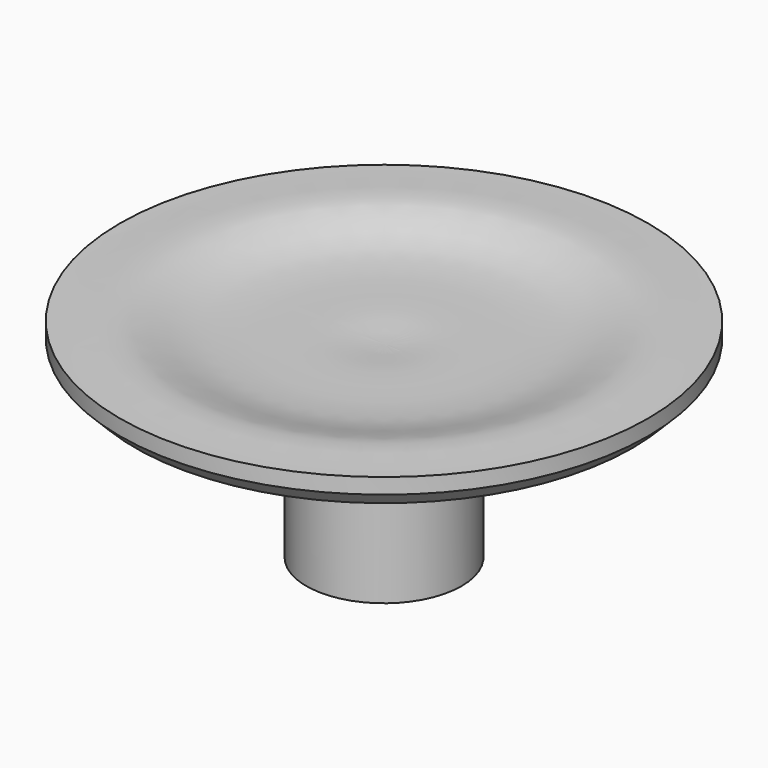
from build123d import *

# Parameters (mm, degrees)
F2_R     = 3.75
F3_DEPTH = 1.2
F4_R     = 2.5
F5_DEPTH = 4.5
F6_R     = 1.55
F7_DEPTH = 4.5
F8_SIZE2 = 0.5
F8_SIZE  = 0.5


with BuildPart() as f1:
    # F0 (on Front) → F1 (revolve)
    with BuildSketch(Plane.XZ):
        with BuildLine():
            Line((-8.5, 0), (0, 0))
            Line((0, 0), (0, 0.346079265))
            add(Edge.make_bspline(
                [(-8.5, 1), (-7.9439580441, 0.9699382936), (-6.4414965177, 1.1872948826), (-4.7760567404, 0.3213823797), (-1.4301329999, 0.5005030041), (-0.8624908504, 0.3459224587), (0, 0.346079265)],
                knots=[0, 0, 0, 0, 0.2391975808, 0.4806677273, 0.7782536308, 1, 1, 1, 1], degree=3))
            Line((-8.5, 1), (-8.5, 0))
        make_face()
    revolve(axis=Axis((0, 0, 0.599608873), (0, 0, 1)))

    # F2 (on face) → F3 (join)
    with BuildSketch(Plane(origin=(0, 0, 0), x_dir=(1, 0, 0), z_dir=(0, 0, -1))):
        Circle(F2_R)
    extrude(amount=F3_DEPTH)

    # F4 (on face) → F5 (join)
    with BuildSketch(Plane(origin=(0, 0, -1.2), x_dir=(1, 0, 0), z_dir=(0, 0, -1))):
        Circle(F4_R)
    extrude(amount=F5_DEPTH)

    # F6 (on face) → F7 (cut, through all)
    with BuildSketch(Plane(origin=(0, 0, -5.7), x_dir=(1, 0, 0), z_dir=(0, 0, -1))):
        Circle(F6_R)
    extrude(amount=-F7_DEPTH, mode=Mode.SUBTRACT)

    # F8
    f8_edges = [f1.edges().sort_by_distance(p)[0] for p in [
        (-3.75, 0, -1.2),
        (8.5, 0, 0),
    ]]
    chamfer(f8_edges, length=F8_SIZE, length2=F8_SIZE2)


solid = f1.part
